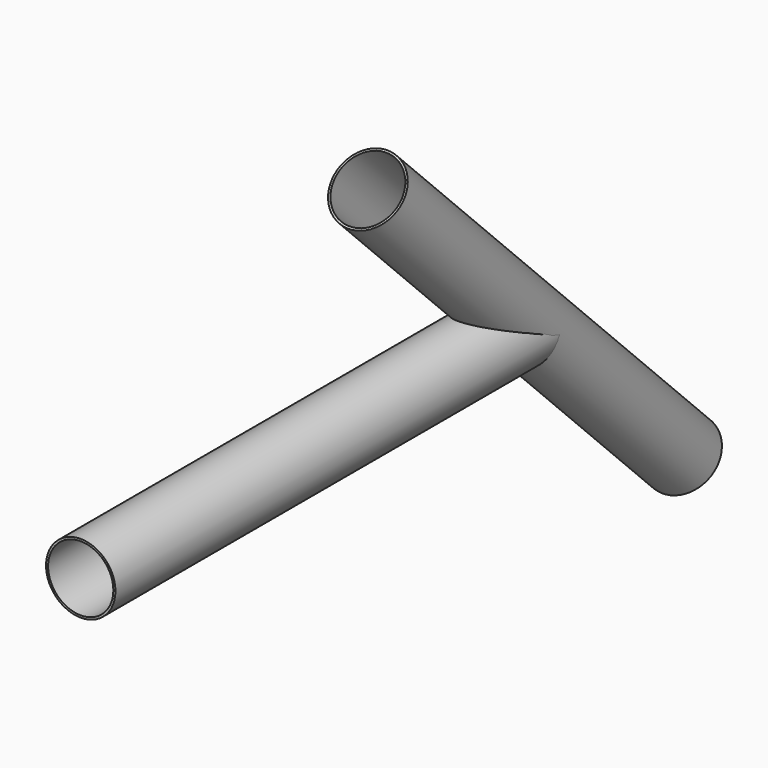
from build123d import *

# Parameters (mm, degrees)
F0_R     = 25
F0_R_2   = 23.5
F1_DEPTH = 400
F3_R     = 25
F3_R_2   = 23.5
F4_DEPTH = 100
F5_DEPTH = 200


with BuildPart() as f1:
    # F0 (on Front) → F1 (new body)
    with BuildSketch(Plane.XZ):
        Circle(F0_R)
        Circle(F0_R_2, mode=Mode.SUBTRACT)
    extrude(amount=F1_DEPTH)

    # F3 (on face) → F4 (cut, symmetric)
    with BuildSketch(Plane(origin=(0, 0, 0), x_dir=(1, 0, 0), z_dir=(0, -0.707107, 0.707107))):
        Circle(F3_R)
        Circle(F3_R_2, mode=Mode.SUBTRACT)
        Circle(F3_R_2)
    extrude(amount=F4_DEPTH, both=True, mode=Mode.SUBTRACT)


with BuildPart() as f5:
    # F3 (on face) → F5 (new body, symmetric)
    with BuildSketch(Plane(origin=(0, 0, 0), x_dir=(1, 0, 0), z_dir=(0, -0.707107, 0.707107))):
        Circle(F3_R)
        Circle(F3_R_2, mode=Mode.SUBTRACT)
    extrude(amount=F5_DEPTH, both=True)


solid = Compound([f1.part, f5.part])
